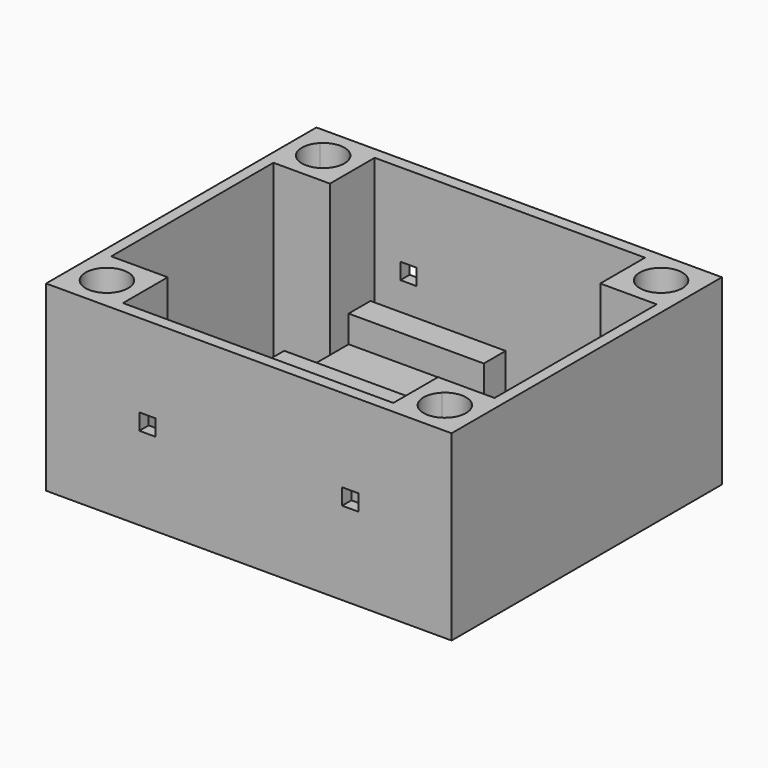
from build123d import *

# Parameters (mm, degrees)
F0_W      = 76.2
F0_H      = 34.29
F1_DEPTH  = 31.75
F2_W      = 72.039268
F2_H      = 59.124664
F3_DEPTH  = 33.02
F4_W      = 3.048
F4_H      = 1.524
F5_DEPTH  = 76.2
F7_DEPTH  = 33.02
F8_W      = 25.4
F8_H      = 25.4
F9_DEPTH  = 20.32
F10_W     = 25.4
F10_H     = 15.1343
F11_DEPTH = 5.08


with BuildPart() as f1:
    # F0 (on Front) → F1 (new body, symmetric)
    with BuildSketch(Plane.XZ):
        Rectangle(F0_W, F0_H)
    extrude(amount=F1_DEPTH, both=True)

    # F2 (on face) → F3 (cut)
    with BuildSketch(Plane.XY.offset(17.145)):
        Rectangle(F2_W, F2_H)
    extrude(amount=-F3_DEPTH, mode=Mode.SUBTRACT)

    # F4 (on face) → F5 (cut)
    with BuildSketch(Plane.XZ.offset(31.75)):
        with Locations((-19.05, 0.762)):
            Rectangle(F4_W, F4_H)
        with Locations((19.05, 0.762)):
            Rectangle(F4_W, F4_H)
        with Locations((19.05, -0.762)):
            Rectangle(F4_W, F4_H)
        with Locations((-19.05, -0.762)):
            Rectangle(F4_W, F4_H)
    extrude(amount=-F5_DEPTH, mode=Mode.SUBTRACT)

    # F6 (on face) → F7 (join)
    with BuildSketch(Plane.XY.offset(17.145)):
        with BuildLine():
            Line((-34.578427, 28.228427), (-38.1, 31.75))
            Line((-38.1, 31.75), (-38.1, 19.05))
            Line((-38.1, 19.05), (-25.4, 19.05))
            Line((-25.4, 19.05), (-28.921573, 22.571573))
            ThreePointArc((-28.921573, 22.571573), (-34.578427, 22.571573), (-34.578427, 28.228427))
        make_face()
        with BuildLine():
            Line((-25.4, 31.75), (-38.1, 31.75))
            Line((-38.1, 31.75), (-34.578427, 28.228427))
            ThreePointArc((-34.578427, 28.228427), (-30.219266, 29.095518), (-27.75, 25.4))
            ThreePointArc((-27.75, 25.4), (-28.054482, 23.869266), (-28.921573, 22.571573))
            Line((-28.921573, 22.571573), (-25.4, 19.05))
            Line((-25.4, 19.05), (-25.4, 31.75))
        make_face()
        with BuildLine():
            Line((-34.578427, -28.228427), (-38.1, -31.75))
            Line((-38.1, -31.75), (-25.4, -31.75))
            Line((-25.4, -31.75), (-25.4, -19.05))
            Line((-25.4, -19.05), (-28.921573, -22.571573))
            ThreePointArc((-28.921573, -22.571573), (-28.054482, -23.869266), (-27.75, -25.4))
            ThreePointArc((-27.75, -25.4), (-30.219266, -29.095518), (-34.578427, -28.228427))
        make_face()
        with BuildLine():
            Line((-38.1, -19.05), (-38.1, -31.75))
            Line((-38.1, -31.75), (-34.578427, -28.228427))
            ThreePointArc((-34.578427, -28.228427), (-34.578427, -22.571573), (-28.921573, -22.571573))
            Line((-28.921573, -22.571573), (-25.4, -19.05))
            Line((-25.4, -19.05), (-38.1, -19.05))
        make_face()
        with BuildLine():
            Line((34.578427, -28.228427), (38.1, -31.75))
            Line((38.1, -31.75), (38.1, -19.05))
            Line((38.1, -19.05), (25.4, -19.05))
            Line((25.4, -19.05), (28.921573, -22.571573))
            ThreePointArc((28.921573, -22.571573), (33.280734, -21.704482), (35.75, -25.4))
            ThreePointArc((35.75, -25.4), (35.445518, -26.930734), (34.578427, -28.228427))
        make_face()
        with BuildLine():
            Line((25.4, -31.75), (38.1, -31.75))
            Line((38.1, -31.75), (34.578427, -28.228427))
            ThreePointArc((34.578427, -28.228427), (28.921573, -28.228427), (28.921573, -22.571573))
            Line((28.921573, -22.571573), (25.4, -19.05))
            Line((25.4, -19.05), (25.4, -31.75))
        make_face()
        with BuildLine():
            Line((34.578427, 28.228427), (38.1, 31.75))
            Line((38.1, 31.75), (25.4, 31.75))
            Line((25.4, 31.75), (25.4, 19.05))
            Line((25.4, 19.05), (28.921573, 22.571573))
            ThreePointArc((28.921573, 22.571573), (28.921573, 28.228427), (34.578427, 28.228427))
        make_face()
        with BuildLine():
            Line((38.1, 19.05), (38.1, 31.75))
            Line((38.1, 31.75), (34.578427, 28.228427))
            ThreePointArc((34.578427, 28.228427), (35.445518, 26.930734), (35.75, 25.4))
            ThreePointArc((35.75, 25.4), (33.280734, 21.704482), (28.921573, 22.571573))
            Line((28.921573, 22.571573), (25.4, 19.05))
            Line((25.4, 19.05), (38.1, 19.05))
        make_face()
    extrude(amount=-F7_DEPTH)

    # F8 (on face) → F9 (join)
    with BuildSketch(Plane.XY.offset(-15.875)):
        Rectangle(F8_W, F8_H)
    extrude(amount=F9_DEPTH)

    # F10 (on face) → F11 (cut)
    with BuildSketch(Plane.XY.offset(4.445)):
        Rectangle(F10_W, F10_H)
    extrude(amount=-F11_DEPTH, mode=Mode.SUBTRACT)


solid = f1.part
